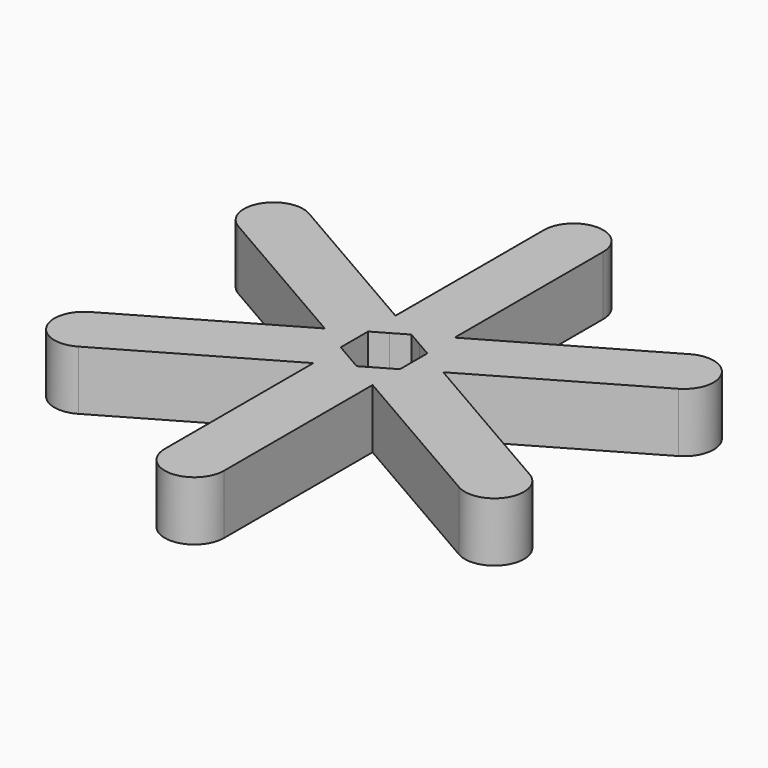
from build123d import *

# Parameters (mm, degrees)
F1_DEPTH = 12.7


with BuildPart() as f1:
    # F0 (on Top) → F1 (new body)
    with BuildSketch(Plane.XY):
        Polygon((-6.35, -3.6661742094), (-6.35, 0), (-6.35, 3.6661742094), (-12.7, 0), align=None)
        Polygon((0, -7.3323484187), (-3.175, -5.499261314), (-6.35, -3.6661742094), (-6.35, -10.9985226281), align=None)
        Polygon((6.35, 3.6661742094), (6.35, 0), (6.35, -3.6661742094), (12.7, 0), align=None)
        with BuildLine():
            Line((-12.7, 0), (-6.35, 3.6661742094))
            Line((-6.35, 3.6661742094), (-6.35, 10.9985226281))
            Line((-6.35, 10.9985226281), (-40.8190905122, 30.899261314))
            ThreePointArc((-40.8190905122, 30.899261314), (-49.4933518263, 28.575), (-47.1690905122, 19.900738686))
            Line((-47.1690905122, 19.900738686), (-12.7, 0))
        make_face()
        Polygon((-6.35, 10.9985226281), (-6.35, 3.6661742094), (-3.175, 5.499261314), (0, 7.3323484187), align=None)
        with BuildLine():
            Line((-6.35, -10.9985226281), (-6.35, -3.6661742094))
            Line((-6.35, -3.6661742094), (-12.7, 0))
            Line((-12.7, 0), (-47.1690905122, -19.900738686))
            ThreePointArc((-47.1690905122, -19.900738686), (-49.4933518263, -28.575), (-40.8190905122, -30.899261314))
            Line((-40.8190905122, -30.899261314), (-6.35, -10.9985226281))
        make_face()
        Polygon((6.35, -3.6661742094), (3.175, -5.499261314), (0, -7.3323484187), (6.35, -10.9985226281), align=None)
        with BuildLine():
            Line((6.35, -10.9985226281), (0, -7.3323484187))
            Line((0, -7.3323484187), (-6.35, -10.9985226281))
            Line((-6.35, -10.9985226281), (-6.35, -50.8))
            ThreePointArc((-6.35, -50.8), (0, -57.15), (6.35, -50.8))
            Line((6.35, -50.8), (6.35, -10.9985226281))
        make_face()
        Polygon((3.175, 5.499261314), (6.35, 3.6661742094), (6.35, 10.9985226281), (0, 7.3323484187), align=None)
        with BuildLine():
            Line((6.35, 10.9985226281), (6.35, 3.6661742094))
            Line((6.35, 3.6661742094), (12.7, 0))
            Line((12.7, 0), (47.1690905122, 19.900738686))
            ThreePointArc((47.1690905122, 19.900738686), (49.4933518263, 28.575), (40.8190905122, 30.899261314))
            Line((40.8190905122, 30.899261314), (6.35, 10.9985226281))
        make_face()
        with BuildLine():
            Line((12.7, 0), (6.35, -3.6661742094))
            Line((6.35, -3.6661742094), (6.35, -10.9985226281))
            Line((6.35, -10.9985226281), (40.8190905122, -30.899261314))
            ThreePointArc((40.8190905122, -30.899261314), (49.4933518263, -28.575), (47.1690905122, -19.900738686))
            Line((47.1690905122, -19.900738686), (12.7, 0))
        make_face()
        with BuildLine():
            Line((-6.35, 50.8), (-6.35, 10.9985226281))
            Line((-6.35, 10.9985226281), (0, 7.3323484187))
            Line((0, 7.3323484187), (6.35, 10.9985226281))
            Line((6.35, 10.9985226281), (6.35, 50.8))
            ThreePointArc((6.35, 50.8), (0, 57.15), (-6.35, 50.8))
        make_face()
    extrude(amount=-F1_DEPTH)


solid = f1.part
